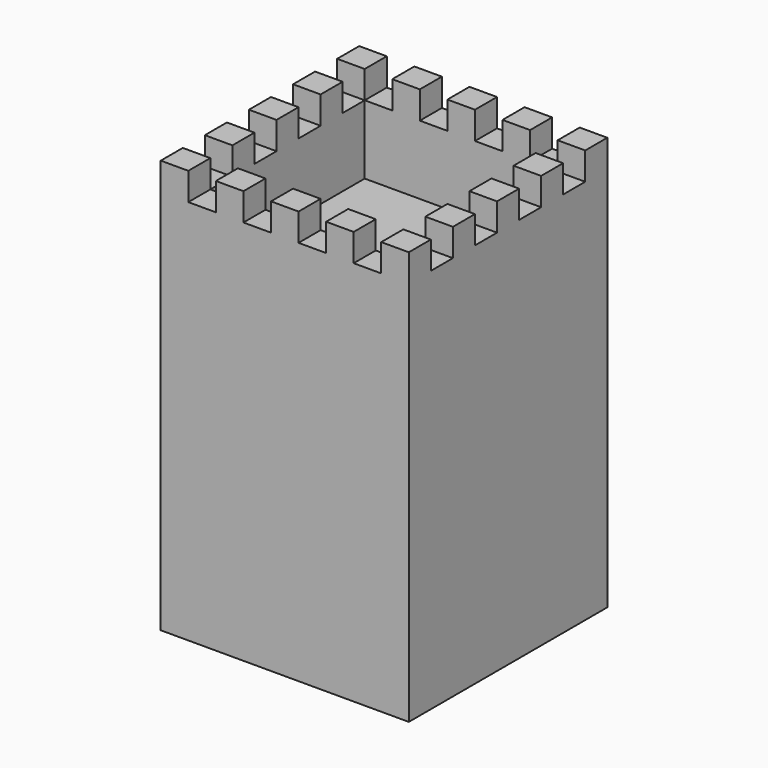
from build123d import *

# Parameters (mm, degrees)
BOX003_W         = 10
BOX003_H         = 110
BOX003_DEPTH     = 10
ARRAY001_X_COUNT = 4
ARRAY001_X_PITCH = 20
BOX002_W         = 110
BOX002_H         = 10
BOX002_DEPTH     = 10
ARRAY_X_COUNT    = 4
ARRAY_X_PITCH    = 20
BOX001_W         = 70
BOX001_H         = 70
BOX001_DEPTH     = 70
BOX_W            = 90
BOX_H            = 90
BOX_DEPTH        = 150


with BuildPart() as array001:
    # Box003 → Box003 (new body)
    with BuildSketch(Plane(origin=(10, -10, 140), x_dir=(1, 0, 0), z_dir=(0, 0, 1))):
        with Locations((5, 55)):
            Rectangle(BOX003_W, BOX003_H)
    extrude(amount=BOX003_DEPTH)

    # Array001 X: Array001 ×4


with BuildPart() as array001_1:
    add(array001.part)
    with Locations(*[(i * ARRAY001_X_PITCH, 0, 0) for i in range(1, ARRAY001_X_COUNT)]):
        add(array001.part)


with BuildPart() as array:
    # Box002 → Box002 (new body)
    with BuildSketch(Plane(origin=(-10, 10, 140), x_dir=(1, 0, 0), z_dir=(0, 0, 1))):
        with Locations((55, 5)):
            Rectangle(BOX002_W, BOX002_H)
    extrude(amount=BOX002_DEPTH)

    # Array X: Array ×4


with BuildPart() as array_1:
    add(array.part)
    with Locations(*[(0, i * ARRAY_X_PITCH, 0) for i in range(1, ARRAY_X_COUNT)]):
        add(array.part)


with BuildPart() as cube001:
    # Box001 → Box001 (new body)
    with BuildSketch(Plane(origin=(10, 10, 115), x_dir=(1, 0, 0), z_dir=(0, 0, 1))):
        with Locations((35, 35)):
            Rectangle(BOX001_W, BOX001_H)
    extrude(amount=BOX001_DEPTH)


with BuildPart() as torre:
    # Box → Box (new body)
    with BuildSketch(Plane.XY):
        with Locations((45, 45)):
            Rectangle(BOX_W, BOX_H)
    extrude(amount=BOX_DEPTH)

    # Cut: cut Cube001
    add(cube001.part, mode=Mode.SUBTRACT)

    # Cut001: cut Array
    add(array_1.part, mode=Mode.SUBTRACT)

    # Cut002: cut Array001
    add(array001_1.part, mode=Mode.SUBTRACT)


solid = torre.part
